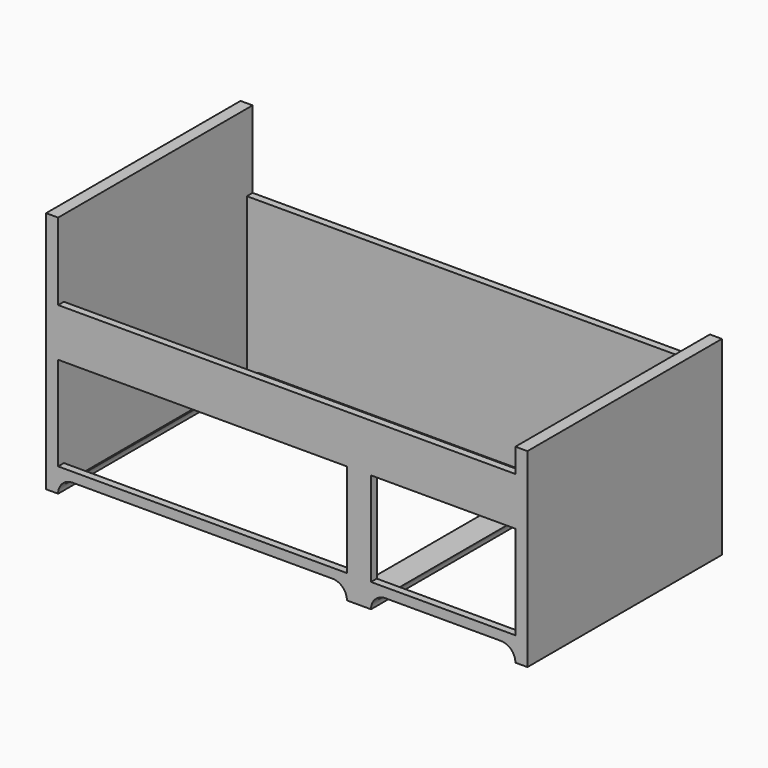
from build123d import *

# Parameters (mm, degrees)
F0_W     = 1900
F0_H     = 30
F1_DEPTH = 690
F2_DEPTH = 1010
F0_H_2   = 950
F3_DEPTH = 25
F4_DEPTH = 790
F6_DEPTH = 1010
F5_W     = 600
F5_H     = 390
F7_DEPTH = 30


with BuildPart() as f1:
    # F0 (on Top) → F1 (new body)
    with BuildSketch(Plane.XY):
        with Locations((-1000, 995)):
            Rectangle(F0_W, F0_H)
        with Locations((-1000, 15)):
            Rectangle(F0_W, F0_H)
        Polygon((-1950, 1010), (-2000, 1010), (-2000, 0), (-1950, 0), (-1950, 30), (-1950, 980), align=None)
        Polygon((0, 1010), (-50, 1010), (-50, 980), (-50, 30), (-50, 0), (0, 0), align=None)
    extrude(amount=F1_DEPTH)

    # F0 (on Top) → F2 (join)
    with BuildSketch(Plane.XY):
        Polygon((-1950, 1010), (-2000, 1010), (-2000, 0), (-1950, 0), (-1950, 30), (-1950, 980), align=None)
    extrude(amount=F2_DEPTH)

    # F0 (on Top) → F3 (join)
    with BuildSketch(Plane.XY):
        with Locations((-1000, 505)):
            Rectangle(F0_W, F0_H_2)
    extrude(amount=F3_DEPTH)

    # F0 (on Top) → F4 (join)
    with BuildSketch(Plane.XY):
        Polygon((0, 1010), (-50, 1010), (-50, 980), (-50, 30), (-50, 0), (0, 0), align=None)
    extrude(amount=F4_DEPTH)

    # F5 (on face) → F6 (cut)
    with BuildSketch(Plane.XZ):
        with BuildLine():
            Line((-1950, 0), (-750, 0))
            ThreePointArc((-750, 0), (-767.573593, 42.426407), (-810, 60))
            Line((-810, 60), (-1890, 60))
            ThreePointArc((-1890, 60), (-1932.426407, 42.426407), (-1950, 0))
        make_face()
        with BuildLine():
            Line((-650, 0), (-50, 0))
            ThreePointArc((-50, 0), (-67.573593, 42.426407), (-110, 60))
            Line((-110, 60), (-590, 60))
            ThreePointArc((-590, 60), (-632.426407, 42.426407), (-650, 0))
        make_face()
    extrude(amount=-F6_DEPTH, mode=Mode.SUBTRACT)

    # F5 (on face) → F7 (cut)
    with BuildSketch(Plane.XZ):
        Polygon((-1439.458966, 490), (-1950, 490), (-1950, 100), (-1439.458966, 100), (-750, 100), (-750, 490), align=None)
        with Locations((-350, 295)):
            Rectangle(F5_W, F5_H)
    extrude(amount=-F7_DEPTH, mode=Mode.SUBTRACT)


solid = f1.part
